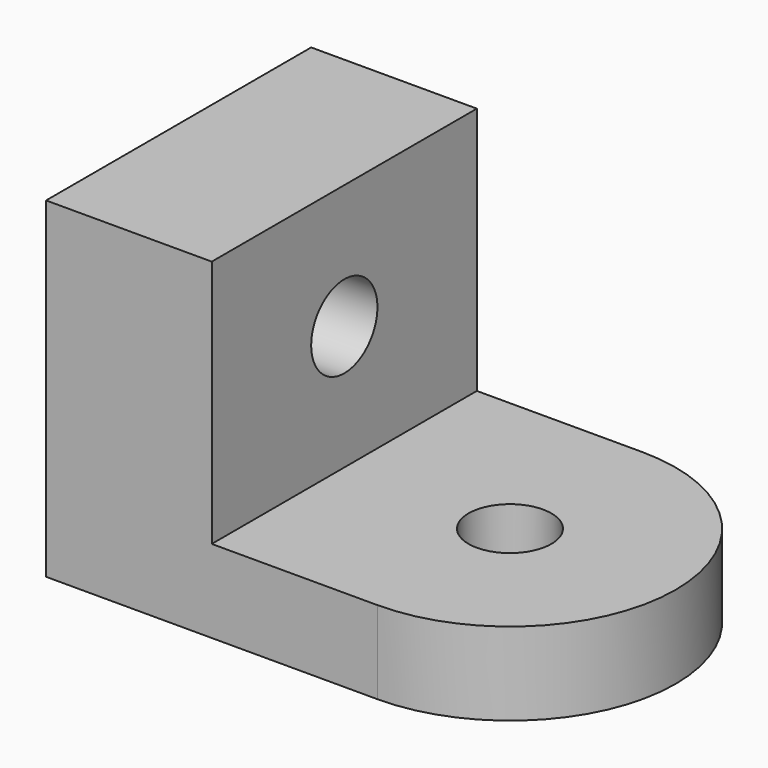
from build123d import *

# Parameters (mm, degrees)
F0_W     = 12.7
F0_H     = 25.4
F1_DEPTH = 25.4
F3_DEPTH = 6.35
F5_D     = 6.35
F7_D     = 6.35


with BuildPart() as f1:
    # F0 (on Top) → F1 (new body)
    with BuildSketch(Plane.XY):
        with Locations((-6.35, 12.7)):
            Rectangle(F0_W, F0_H)
    extrude(amount=F1_DEPTH)

    # F2 (on Top) → F3 (join)
    with BuildSketch(Plane.XY):
        with BuildLine():
            Line((0, 25.4), (0, 0))
            Line((0, 0), (12.7, 0))
            ThreePointArc((12.7, 0), (25.4, 12.7), (12.7, 25.4))
            Line((12.7, 25.4), (0, 25.4))
        make_face()
    extrude(amount=F3_DEPTH)

    # F5 (through all)
    with Locations(Plane.YZ):
        with Locations((12.7, 15.875)):
            Hole(F5_D / 2)

    # F7 (through all)
    with Locations(Plane.XY.offset(6.35)):
        with Locations((12.7, 12.7)):
            Hole(F7_D / 2)


solid = f1.part
